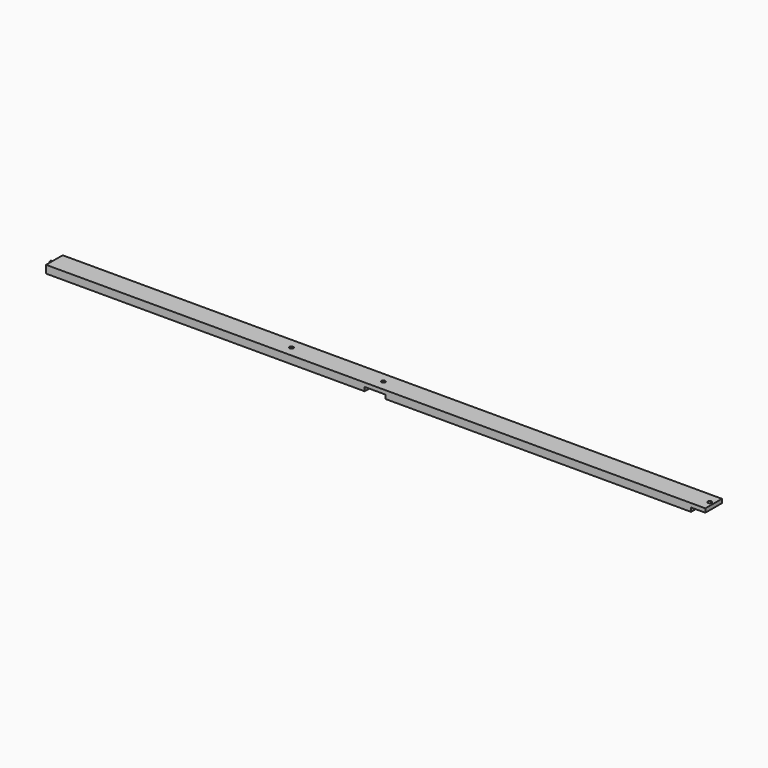
from build123d import *

# Parameters (mm, degrees)
F1_DEPTH = 50.8
F3_R     = 4.7625
F4_DEPTH = 12.7
F5_R     = 4.7625
F6_DEPTH = 9.525


with BuildPart() as f1:
    # F0 (on Front) → F1 (new body)
    with BuildSketch(Plane.XZ):
        Polygon((1616.075, 9.525), (1616.075, 19.05), (0, 19.05), (0, 0), (781.05, 0), (781.05, 9.525), (831.85, 9.525), (831.85, 0), (1581.15, 0), (1581.15, 9.525), align=None)
    extrude(amount=F1_DEPTH)

    # F3 (on offset) → F4 (cut, symmetric)
    with BuildSketch(Plane.XY.offset(9.525)):
        with Locations((806.45, -25.4)):
            Circle(F3_R)
        with Locations((1606.55, -25.4)):
            Circle(F3_R)
        with Locations((581.025, -25.4)):
            Circle(F3_R)
    extrude(amount=F4_DEPTH, both=True, mode=Mode.SUBTRACT)

    # F5 (on Right) → F6 (join)
    with BuildSketch(Plane.YZ):
        with Locations((-25.4, 9.525)):
            Circle(F5_R)
    extrude(amount=-F6_DEPTH)


solid = f1.part
